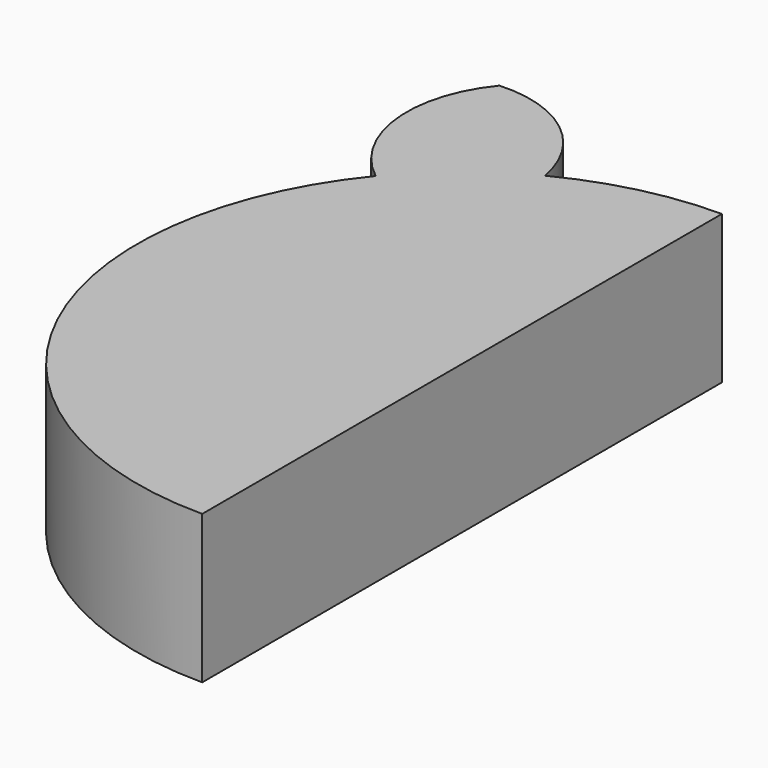
from build123d import *

# Parameters (mm, degrees)
F1_DEPTH = 25.4


with BuildPart() as f1:
    # F0 (on Top) → F1 (new body)
    with BuildSketch(Plane.XY):
        with BuildLine():
            Line((0, 0), (0, 55.623443))
            ThreePointArc((0, 55.623443), (-13.065012, 54.0673), (-25.399001, 49.485939))
            ThreePointArc((-25.399001, 49.485939), (-34.934021, 43.284889), (-43.008327, 35.273946))
            ThreePointArc((-43.008327, 35.273946), (-50.279348, -23.7898), (0, -55.623443))
            Line((0, -55.623443), (0, 0))
        make_face()
        with BuildLine():
            ThreePointArc((-43.008327, 35.273946), (-34.934021, 43.284889), (-25.399001, 49.485939))
            ThreePointArc((-25.399001, 49.485939), (-32.76961, 61.776064), (-46.44876, 66.048525))
            ThreePointArc((-46.44876, 66.048525), (-51.227, 49.934743), (-43.008327, 35.273946))
        make_face()
    extrude(amount=F1_DEPTH)


solid = f1.part
